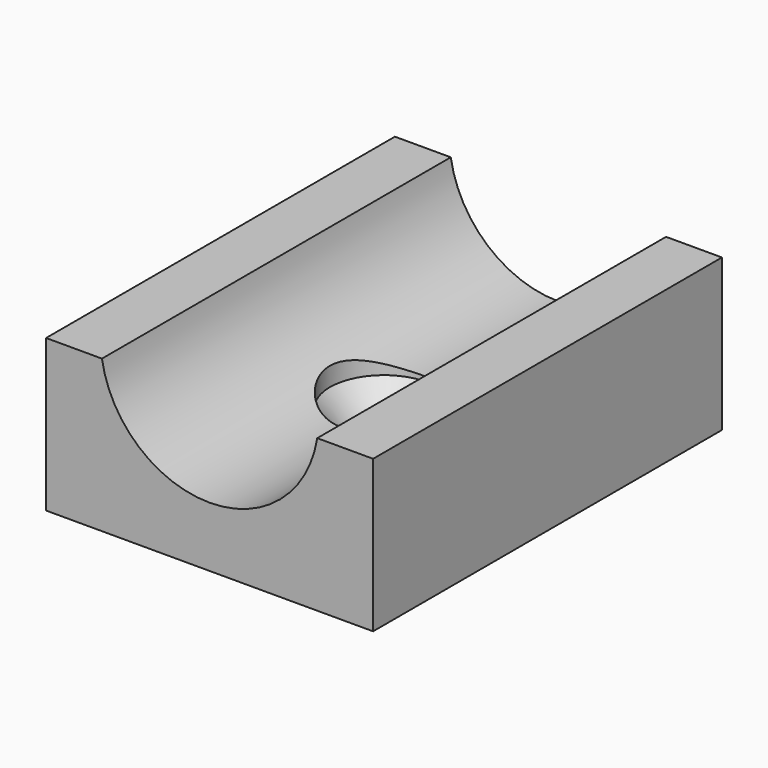
from build123d import *

# Parameters (mm, degrees)
F2_DEPTH = 25.4


with BuildPart() as f2:
    # F0 (on Front) → F2 (new body, symmetric)
    with BuildSketch(Plane.XZ):
        with BuildLine():
            Line((-19.05, 17.7), (-19.05, 0))
            Line((-19.05, 0), (19.05, 0))
            Line((19.05, 0), (19.05, 17.7))
            Line((19.05, 17.7), (12.541531, 17.7))
            ThreePointArc((12.541531, 17.7), (0, 7), (-12.541531, 17.7))
            Line((-12.541531, 17.7), (-19.05, 17.7))
        make_face()
    extrude(amount=F2_DEPTH, both=True)

    # F1 (on Front) → F3 (revolve, cut)
    with BuildSketch(Plane.XZ):
        Polygon((0, 17.176644), (-6.3, 17.176644), (-6.3, 7), (-6.3, 6.479864), (-3.275, 3), (-3.275, 0), (0, 0), align=None)
    revolve(axis=Axis((0, 0, 8.588322), (0, 0, -1)), mode=Mode.SUBTRACT)


solid = f2.part
